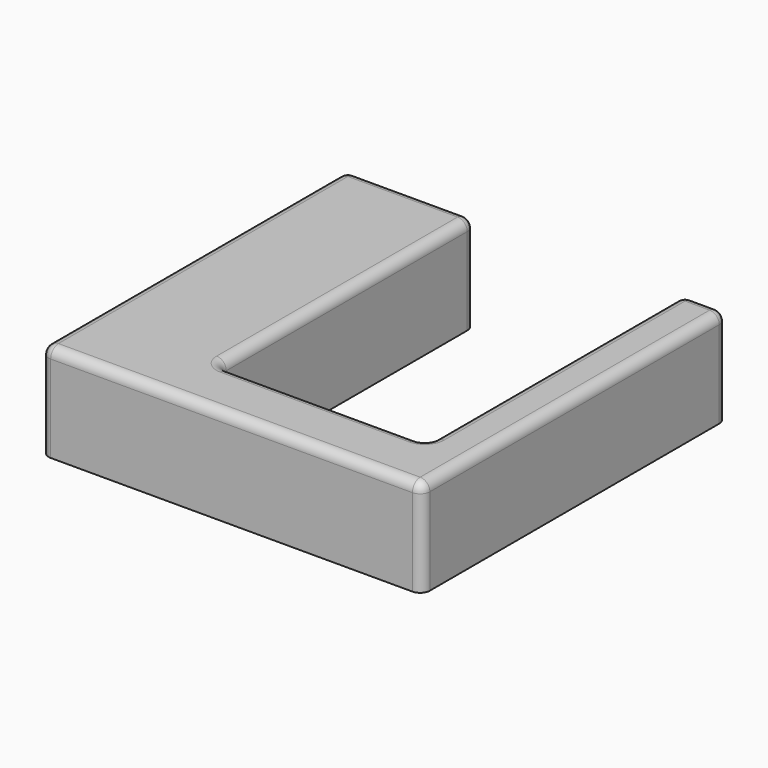
from build123d import *

# Parameters (mm, degrees)
F1_DEPTH = 25.4
F2_R     = 2.54
F3_R     = 2.54


with BuildPart() as f1:
    # F0 (on Top) → F1 (new body)
    with BuildSketch(Plane.XY):
        Polygon((-93.011853, 65.189209), (-93.011853, -34.810791), (6.988147, -34.810791), (6.988147, 65.189209), (-4.522704, 65.189209), (-4.522704, -18.92205), (-59.142936, -18.92205), (-59.142936, 65.189209), align=None)
    extrude(amount=F1_DEPTH)

    # F2
    f2_edges = [f1.edges().sort_by_distance(p)[0] for p in [
        (-93.011853, -34.810791, 12.7),
        (6.988147, -34.810791, 12.7),
        (-4.522704, -18.92205, 12.7),
        (-59.142936, -18.92205, 12.7),
        (-59.142936, 65.189209, 12.7),
        (-93.011853, 65.189209, 12.7),
        (6.988147, 65.189209, 12.7),
        (-4.522704, 65.189209, 12.7),
    ]]
    fillet(f2_edges, radius=F2_R)

    # F3
    f3_edges = [f1.edges().sort_by_distance(p)[0] for p in [
        (1.232722, 65.189209, 25.4),
        (6.244199, 64.445261, 25.4),
        (-3.778755, 64.445261, 25.4),
        (6.988147, 15.189209, 25.4),
        (-4.522704, 23.13358, 25.4),
        (6.244199, -34.066842, 25.4),
        (-5.266652, -18.178101, 25.4),
        (-43.011853, -34.810791, 25.4),
        (-31.83282, -18.92205, 25.4),
        (-92.267904, -34.066842, 25.4),
        (-58.398987, -18.178101, 25.4),
        (-93.011853, 15.189209, 25.4),
        (-59.142936, 23.13358, 25.4),
        (-92.267904, 64.445261, 25.4),
        (-59.886885, 64.445261, 25.4),
        (-76.077394, 65.189209, 25.4),
    ]]
    fillet(f3_edges, radius=F3_R)


solid = f1.part
